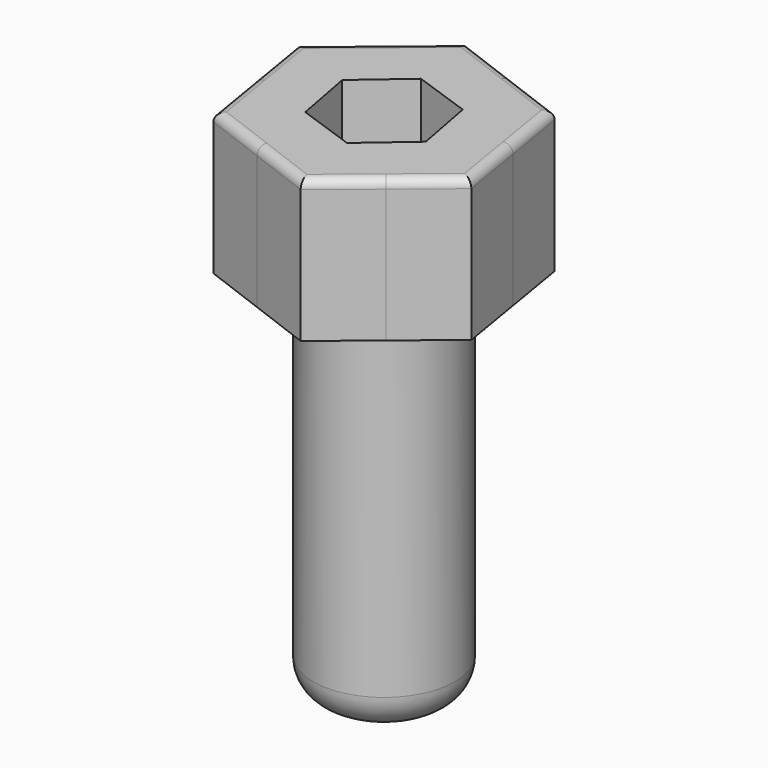
from build123d import *

# Parameters (mm, degrees)
F0_R     = 4
F1_DEPTH = 4
F2_DEPTH = 4
F3_DEPTH = 25
F4_R     = 2
F5_R     = 0.5


with BuildPart() as f1:
    # F0 (on Top) → F1 (new body)
    with BuildSketch(Plane.XY):
        with BuildLine():
            ThreePointArc((4.1287042683, -5.02033874), (5.8773539005, -2.776096383), (6.5, 0))
            ThreePointArc((6.5, 0), (6.4779859765, 0.534506958), (6.412093019, 1.0653934086))
            ThreePointArc((6.412093019, 1.0653934086), (5.020338785, 4.1287042137), (2.2833888805, 6.0857321023))
            ThreePointArc((2.2833888805, 6.0857321023), (-1.0653932869, 6.4120930393), (-4.1287041813, 5.0203388116))
            ThreePointArc((-4.1287041813, 5.0203388116), (-6.0857321431, 2.2833887717), (-6.4120930076, -1.0653934773))
            ThreePointArc((-6.4120930076, -1.0653934773), (-5.020338751, -4.1287042549), (-2.2833888456, -6.0857321153))
            ThreePointArc((-2.2833888456, -6.0857321153), (1.0653933609, -6.412093027), (4.1287042683, -5.02033874))
        make_face()
        Circle(F0_R, mode=Mode.SUBTRACT)
        with BuildLine():
            ThreePointArc((6.412093019, 1.0653934086), (6.4779859765, 0.534506958), (6.5, 0))
            ThreePointArc((6.5, 0), (5.8773539005, -2.776096383), (4.1287042683, -5.02033874))
            Line((4.1287042683, -5.02033874), (7.027198158, -2.6366303082))
            Line((7.027198158, -2.6366303082), (6.412093019, 1.0653934086))
        make_face()
        with BuildLine():
            ThreePointArc((2.2833888805, 6.0857321023), (5.020338785, 4.1287042137), (6.412093019, 1.0653934086))
            Line((6.412093019, 1.0653934086), (5.7969879062, 4.7674169681))
            Line((5.7969879062, 4.7674169681), (2.2833888805, 6.0857321023))
        make_face()
        with BuildLine():
            Line((1.2302102517, -7.4040472763), (4.1287042683, -5.02033874))
            ThreePointArc((4.1287042683, -5.02033874), (1.0653933609, -6.412093027), (-2.2833888456, -6.0857321153))
            Line((-2.2833888456, -6.0857321153), (1.2302102517, -7.4040472763))
        make_face()
        with BuildLine():
            ThreePointArc((-4.1287041813, 5.0203388116), (-1.0653932869, 6.4120930393), (2.2833888805, 6.0857321023))
            Line((2.2833888805, 6.0857321023), (-1.2302102517, 7.4040472763))
            Line((-1.2302102517, 7.4040472763), (-4.1287041813, 5.0203388116))
        make_face()
        with BuildLine():
            Line((-5.7969879062, -4.7674169681), (-2.2833888456, -6.0857321153))
            ThreePointArc((-2.2833888456, -6.0857321153), (-5.020338751, -4.1287042549), (-6.4120930076, -1.0653934773))
            Line((-6.4120930076, -1.0653934773), (-5.7969879062, -4.7674169681))
        make_face()
        with BuildLine():
            ThreePointArc((-6.4120930076, -1.0653934773), (-6.0857321431, 2.2833887717), (-4.1287041813, 5.0203388116))
            Line((-4.1287041813, 5.0203388116), (-7.027198158, 2.6366303082))
            Line((-7.027198158, 2.6366303082), (-6.4120930076, -1.0653934773))
        make_face()
        Circle(F0_R)
        Polygon((-2.6272431226, -2.2577851038), (-3.2689208174, 1.1463667342), (-0.6416776948, 3.404151838), (2.6272431226, 2.2577851038), (3.2689208174, -1.1463667342), (0.6416776948, -3.404151838), align=None, mode=Mode.SUBTRACT)
        Polygon((-0.6416776948, 3.404151838), (-3.2689208174, 1.1463667342), (-2.6272431226, -2.2577851038), (0.6416776948, -3.404151838), (3.2689208174, -1.1463667342), (2.6272431226, 2.2577851038), align=None)
    extrude(amount=-F1_DEPTH)

    # F0 (on Top) → F2 (join)
    with BuildSketch(Plane.XY):
        with BuildLine():
            ThreePointArc((4.1287042683, -5.02033874), (5.8773539005, -2.776096383), (6.5, 0))
            ThreePointArc((6.5, 0), (6.4779859765, 0.534506958), (6.412093019, 1.0653934086))
            ThreePointArc((6.412093019, 1.0653934086), (5.020338785, 4.1287042137), (2.2833888805, 6.0857321023))
            ThreePointArc((2.2833888805, 6.0857321023), (-1.0653932869, 6.4120930393), (-4.1287041813, 5.0203388116))
            ThreePointArc((-4.1287041813, 5.0203388116), (-6.0857321431, 2.2833887717), (-6.4120930076, -1.0653934773))
            ThreePointArc((-6.4120930076, -1.0653934773), (-5.020338751, -4.1287042549), (-2.2833888456, -6.0857321153))
            ThreePointArc((-2.2833888456, -6.0857321153), (1.0653933609, -6.412093027), (4.1287042683, -5.02033874))
        make_face()
        Circle(F0_R, mode=Mode.SUBTRACT)
        Circle(F0_R)
        Polygon((-2.6272431226, -2.2577851038), (-3.2689208174, 1.1463667342), (-0.6416776948, 3.404151838), (2.6272431226, 2.2577851038), (3.2689208174, -1.1463667342), (0.6416776948, -3.404151838), align=None, mode=Mode.SUBTRACT)
        with BuildLine():
            ThreePointArc((-4.1287041813, 5.0203388116), (-1.0653932869, 6.4120930393), (2.2833888805, 6.0857321023))
            Line((2.2833888805, 6.0857321023), (-1.2302102517, 7.4040472763))
            Line((-1.2302102517, 7.4040472763), (-4.1287041813, 5.0203388116))
        make_face()
        with BuildLine():
            ThreePointArc((-6.4120930076, -1.0653934773), (-6.0857321431, 2.2833887717), (-4.1287041813, 5.0203388116))
            Line((-4.1287041813, 5.0203388116), (-7.027198158, 2.6366303082))
            Line((-7.027198158, 2.6366303082), (-6.4120930076, -1.0653934773))
        make_face()
        with BuildLine():
            Line((-5.7969879062, -4.7674169681), (-2.2833888456, -6.0857321153))
            ThreePointArc((-2.2833888456, -6.0857321153), (-5.020338751, -4.1287042549), (-6.4120930076, -1.0653934773))
            Line((-6.4120930076, -1.0653934773), (-5.7969879062, -4.7674169681))
        make_face()
        with BuildLine():
            ThreePointArc((2.2833888805, 6.0857321023), (5.020338785, 4.1287042137), (6.412093019, 1.0653934086))
            Line((6.412093019, 1.0653934086), (5.7969879062, 4.7674169681))
            Line((5.7969879062, 4.7674169681), (2.2833888805, 6.0857321023))
        make_face()
        with BuildLine():
            ThreePointArc((6.412093019, 1.0653934086), (6.4779859765, 0.534506958), (6.5, 0))
            ThreePointArc((6.5, 0), (5.8773539005, -2.776096383), (4.1287042683, -5.02033874))
            Line((4.1287042683, -5.02033874), (7.027198158, -2.6366303082))
            Line((7.027198158, -2.6366303082), (6.412093019, 1.0653934086))
        make_face()
        with BuildLine():
            Line((1.2302102517, -7.4040472763), (4.1287042683, -5.02033874))
            ThreePointArc((4.1287042683, -5.02033874), (1.0653933609, -6.412093027), (-2.2833888456, -6.0857321153))
            Line((-2.2833888456, -6.0857321153), (1.2302102517, -7.4040472763))
        make_face()
    extrude(amount=F2_DEPTH)

    # F0 (on Top) → F3 (join)
    with BuildSketch(Plane.XY):
        Circle(F0_R)
        Polygon((-2.6272431226, -2.2577851038), (-3.2689208174, 1.1463667342), (-0.6416776948, 3.404151838), (2.6272431226, 2.2577851038), (3.2689208174, -1.1463667342), (0.6416776948, -3.404151838), align=None, mode=Mode.SUBTRACT)
        Polygon((-0.6416776948, 3.404151838), (-3.2689208174, 1.1463667342), (-2.6272431226, -2.2577851038), (0.6416776948, -3.404151838), (3.2689208174, -1.1463667342), (2.6272431226, 2.2577851038), align=None)
    extrude(amount=-F3_DEPTH)

    # F4
    f4_edges = [f1.edges().sort_by_distance(p)[0] for p in [
        (-4, 0, -25),
    ]]
    fillet(f4_edges, radius=F4_R)

    # F5
    f5_edges = [f1.edges().sort_by_distance(p)[0] for p in [
        (-6.412093, -1.065393, 4),
        (-2.283389, -6.085732, 4),
        (4.128704, -5.020339, 4),
        (6.412093, 1.065393, 4),
        (2.283389, 6.085732, 4),
        (-4.128704, 5.020339, 4),
    ]]
    fillet(f5_edges, radius=F5_R)


solid = f1.part
